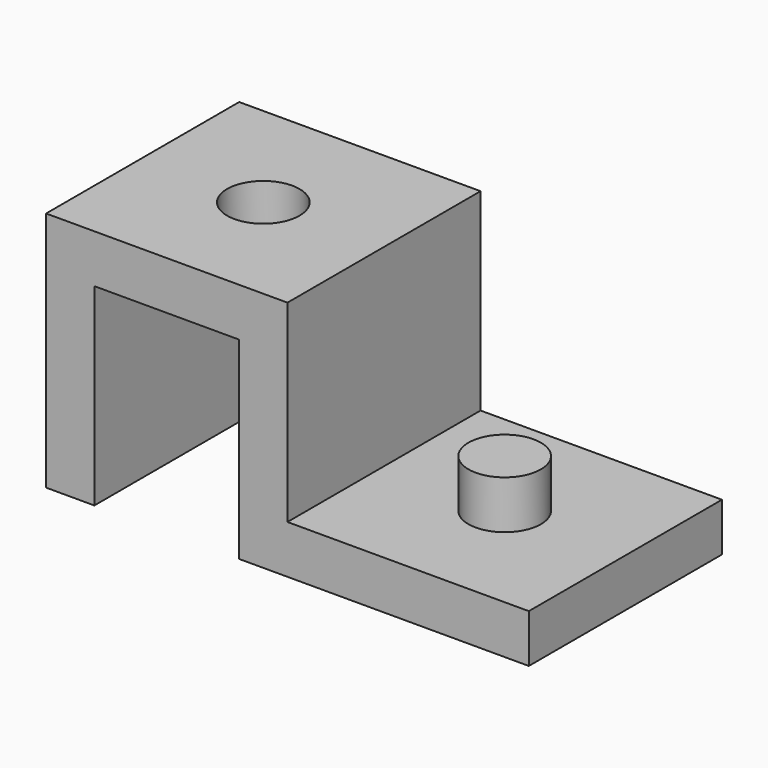
from build123d import *

# Parameters (mm, degrees)
F0_W          = 100
F0_H          = 50
F1_DEPTH      = 50
F2_W          = 30
F2_H          = 40
F3_DEPTH      = 50
F3_DEPTH_BACK = 25
F4_W          = 50
F4_H          = 40
F5_DEPTH      = 50
F5_DEPTH_BACK = 25
F6_R          = 7.5
F7_DEPTH      = 10
F8_R          = 7.5
F9_DEPTH      = 10


with BuildPart() as f1:
    # F0 (on Front) → F1 (new body)
    with BuildSketch(Plane.XZ):
        with Locations((50, 25)):
            Rectangle(F0_W, F0_H)
    extrude(amount=-F1_DEPTH)

    # F2 (on face) → F3 (cut, two sides)
    with BuildSketch(Plane.XZ) as f3_sk:
        with Locations((25, 20)):
            Rectangle(F2_W, F2_H)
    extrude(amount=-F3_DEPTH, mode=Mode.SUBTRACT)
    extrude(f3_sk.sketch, amount=-F3_DEPTH_BACK, mode=Mode.SUBTRACT)

    # F4 (on face) → F5 (cut, two sides)
    with BuildSketch(Plane.XZ) as f5_sk:
        with Locations((75, 30)):
            Rectangle(F4_W, F4_H)
    extrude(amount=-F5_DEPTH, mode=Mode.SUBTRACT)
    extrude(f5_sk.sketch, amount=-F5_DEPTH_BACK, mode=Mode.SUBTRACT)

    # F6 (on face) → F7 (cut, through all)
    with BuildSketch(Plane.XY.offset(50)):
        with Locations((25, 25)):
            Circle(F6_R)
    extrude(amount=-F7_DEPTH, mode=Mode.SUBTRACT)

    # F8 (on face) → F9 (join)
    with BuildSketch(Plane.XY.offset(10)):
        with Locations((75, 25)):
            Circle(F8_R)
    extrude(amount=F9_DEPTH)


solid = f1.part
